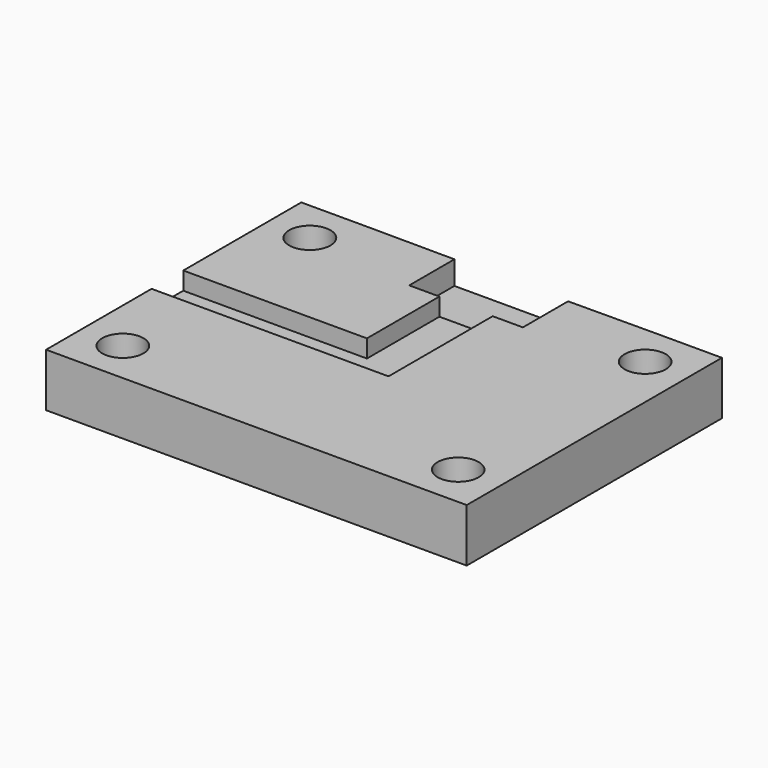
from build123d import *

# Parameters (mm, degrees)
F1_DEPTH   = 3.81
F2_W       = 8.128
F2_H       = 1.905
F1_FACE1_W = 20.6248
F1_FACE1_H = 3.81
F3_DEPTH   = 1.8542
F4_DEPTH   = 2.1844
F5_DEPTH   = 2.1844
F6_W       = 8.128
F6_H       = 2.1333807143
F7_DEPTH   = 6.096
F8_DEPTH   = 2.54
F9_DEPTH   = 2.54
F10_DEPTH  = 2.54
F11_DEPTH  = 6.096
F12_R      = 1.4742196791
F12_R_2    = 1.4703350309
F12_R_3    = 1.4763746717
F12_R_4    = 1.4703336231
F13_DEPTH  = 25.4
F16_DEPTH  = 2.0574
F18_DEPTH  = 1.27
F19_ANGLE  = -180


with BuildPart() as f1:
    # F0 (on Top) → F1 (new body)
    with BuildSketch(Plane.XY):
        Polygon((-10.3124, -9.2075), (10.3124, -9.2075), (10.3124, 9.2075), (4.064, 9.1750113802), (4.064, 3.0790113802), (-4.064, 3.0790113802), (-4.064, 9.1750113802), (-10.3124, 9.2075), align=None)
    extrude(amount=F1_DEPTH)

    # F2 (on face) + F1_face1 (on face) → F3 (join)
    with BuildSketch(Plane(origin=(0, 3.0790113802, 0), x_dir=(-1, 0, 0), z_dir=(0, 1, 0))):
        with Locations((0, 2.8575)):
            Rectangle(F2_W, F2_H)
    with BuildSketch(Plane(origin=(0, -9.2075, 1.905), x_dir=(1, 0, 0), z_dir=(0, -1, 0))):
        Rectangle(F1_FACE1_W, F1_FACE1_H)
    extrude(amount=-F3_DEPTH, dir=(0, 1, 0))

    # F4 (add): a face of the model
    f4_faces = [f1.faces().sort_by_distance(p)[0] for p in [
        (-10.3124, -0.9271, 1.905),
    ]]
    extrude(f4_faces, amount=F4_DEPTH)

    # F5 (add): a face of the model
    f5_faces = [f1.faces().sort_by_distance(p)[0] for p in [
        (10.3124, -0.9271, 1.905),
    ]]
    extrude(f5_faces, amount=F5_DEPTH)

    # F6 (on face) → F7 (join)
    with BuildSketch(Plane(origin=(0, 3.0790113802, 0), x_dir=(-1, 0, 0), z_dir=(0, 1, 0))):
        with Locations((0, 2.7433096429)):
            Rectangle(F6_W, F6_H)
    extrude(amount=F7_DEPTH)

    # F8 (add): a face of the model
    f8_faces = [f1.faces().sort_by_distance(p)[0] for p in [
        (-12.4968, -0.9271, 1.905),
    ]]
    extrude(f8_faces, amount=F8_DEPTH)

    # F9 (add): a face of the model
    f9_faces = [f1.faces().sort_by_distance(p)[0] for p in [
        (12.4968, -0.9271, 1.905),
    ]]
    extrude(f9_faces, amount=F9_DEPTH)

    # F10 (add): a face of the model
    f10_faces = [f1.faces().sort_by_distance(p)[0] for p in [
        (0, -11.0617, 1.905),
    ]]
    extrude(f10_faces, amount=F10_DEPTH)

    # F11 (cut): a face of the model
    f11_faces = [f1.faces().sort_by_distance(p)[0] for p in [
        (0, 3.0790113802, 0.8383096429),
    ]]
    extrude(f11_faces, amount=F11_DEPTH, mode=Mode.SUBTRACT)

    # F12 (on face) → F13 (cut)
    with BuildSketch(Plane.XY.offset(3.81)):
        with Locations((11.9888, -10.5537)):
            Circle(F12_R)
        with Locations((-11.9888, -10.5537)):
            Circle(F12_R_2)
        with Locations((11.9888, 6.1595)):
            Circle(F12_R_3)
        with Locations((-11.9888, 6.1595)):
            Circle(F12_R_4)
    extrude(amount=-F13_DEPTH, mode=Mode.SUBTRACT)


with BuildPart() as f14_1:
    # F14: copy of F1
    add(f1.part.moved(Location((0, -28.956, 0))))


with BuildPart() as f1_1:
    add(f1.part)

    # F16 (add): a face of the model
    f16_faces = [f1_1.faces().sort_by_distance(p)[0] for p in [
        (0, 3.0790113802, 0.8383096429),
    ]]
    extrude(f16_faces, amount=F16_DEPTH)

    # F17 (on face) → F18 (cut)
    with BuildSketch(Plane(origin=(0, 0, 0), x_dir=(1, 0, 0), z_dir=(0, 0, -1))):
        Polygon((-1.905, -5.1364113802), (1.905, -5.1364113802), (1.905, 1.340843155), (15.0368, 1.340843155), (15.0368, 4.1735726409), (-1.905, 4.1735726409), align=None)
    extrude(amount=-F18_DEPTH, mode=Mode.SUBTRACT)


with BuildPart() as f1_2:
    # F19: moved
    add(f1_1.part.rotate(Axis((15.0368, -8.8876363204, 0), (0, -1, 0)), F19_ANGLE))


solid = f1_2.part
